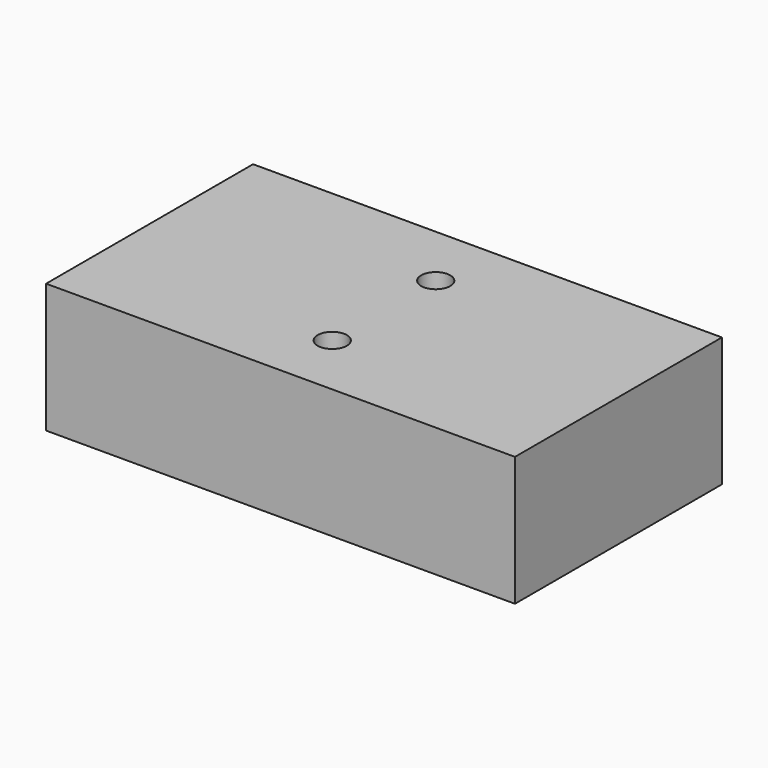
from build123d import *

# Parameters (mm, degrees)
CYLINDER003_R     = 1.8
CYLINDER003_DEPTH = 50
ARRAY001_Y_COUNT  = 2
ARRAY001_Y_PITCH  = 16
BOX_W             = 58
BOX_H             = 32
BOX_DEPTH         = 16


with BuildPart() as bolt_hole_array:
    # Cylinder003 → Cylinder003 (new body)
    with BuildSketch(Plane.XY):
        Circle(CYLINDER003_R)
    extrude(amount=CYLINDER003_DEPTH)

    # Array001 Y: bolt hole array ×2


with BuildPart() as bolt_hole_array_1:
    add(bolt_hole_array.part)
    with Locations(*[(0, i * ARRAY001_Y_PITCH, 0) for i in range(1, ARRAY001_Y_COUNT)]):
        add(bolt_hole_array.part)


with BuildPart() as bolt_hole_array_2:
    # Array001 placement: moved
    add(bolt_hole_array_1.part.moved(Location((29, 8, 0))))


with BuildPart() as battery_mockup_cut:
    # Box → Box (new body)
    with BuildSketch(Plane.XY):
        with Locations((29, 16)):
            Rectangle(BOX_W, BOX_H)
    extrude(amount=BOX_DEPTH)

    # Cut002: cut bolt hole array
    add(bolt_hole_array_2.part, mode=Mode.SUBTRACT)


with BuildPart() as battery_mockup_cut_1:
    # Cut002 placement: moved
    add(battery_mockup_cut.part.moved(Location((-29, 45.5, -5))))


solid = battery_mockup_cut_1.part
